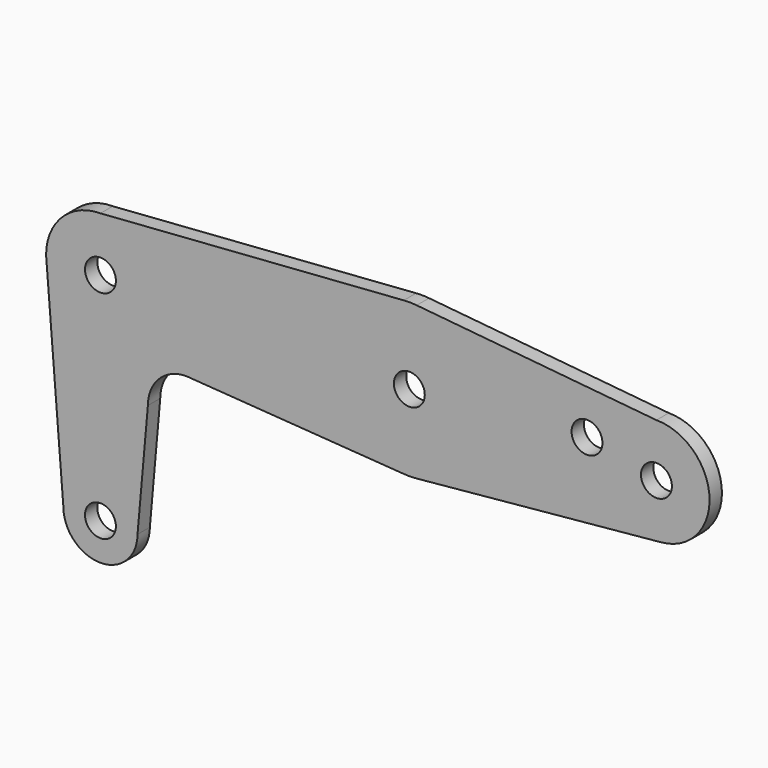
from build123d import *

# Parameters (mm, degrees)
F0_R     = 3.175
F1_DEPTH = 3.175


with BuildPart() as f1:
    # F0 (on Front) → F1 (new body)
    with BuildSketch(Plane.XZ):
        with BuildLine():
            ThreePointArc((-63.5, 11.176), (-71.402625, 7.902625), (-74.676, 0))
            Line((-74.676, 0), (-71.12, -44.45))
            ThreePointArc((-71.12, -44.45), (-63.5, -52.07), (-55.88, -44.45))
            Line((-55.88, -44.45), (-53.7464, -20.4216))
            ThreePointArc((-53.7464, -20.4216), (-51.440159, -14.853841), (-45.8724, -12.5476))
            Line((-45.8724, -12.5476), (-1.1094, -15.708874))
            ThreePointArc((-1.1094, -15.708874), (0.193995, -15.746805), (1.49606, -15.676776))
            Line((1.49606, -15.676776), (51.83759, -10.872603))
            ThreePointArc((51.83759, -10.872603), (61.709644, 0.519383), (50.8, 10.922))
            Line((50.8, 10.922), (1.511696, 15.675276))
            ThreePointArc((1.511696, 15.675276), (0.185937, 15.746902), (-1.141142, 15.7066))
            Line((-1.141142, 15.7066), (-63.5, 11.176))
        make_face()
        with Locations((-63.5, -44.45)):
            Circle(F0_R, mode=Mode.SUBTRACT)
        with Locations((-63.5, 0)):
            Circle(F0_R, mode=Mode.SUBTRACT)
        Circle(F0_R, mode=Mode.SUBTRACT)
        with Locations((36.5252, 3.175)):
            Circle(F0_R, mode=Mode.SUBTRACT)
        with Locations((50.8, 0)):
            Circle(F0_R, mode=Mode.SUBTRACT)
    extrude(amount=F1_DEPTH)


solid = f1.part
